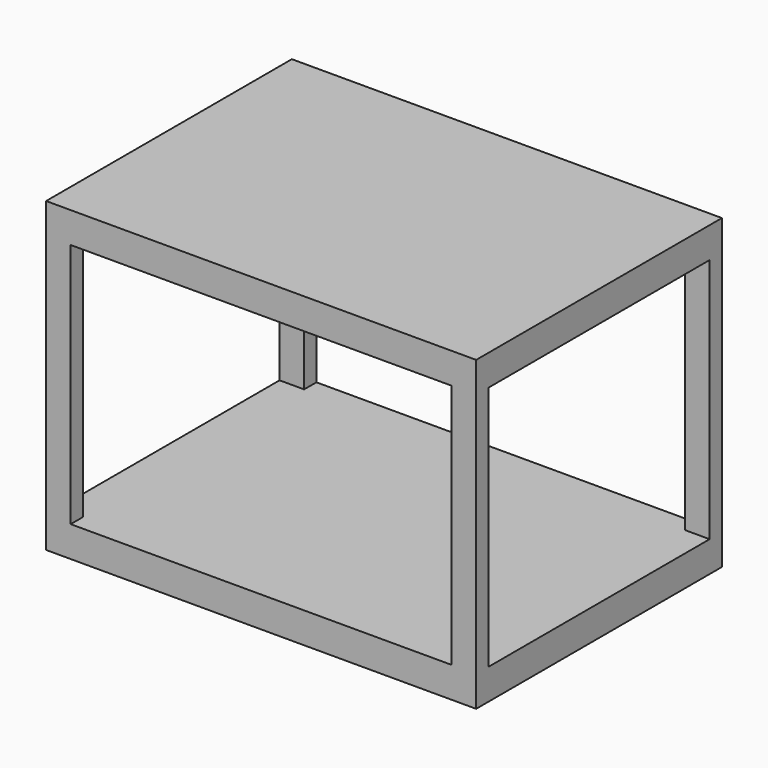
from build123d import *

# Parameters (mm, degrees)
F0_W     = 700
F0_H     = 500
F1_DEPTH = 500
F2_W     = 620
F2_H     = 400
F3_DEPTH = 810
F4_W     = 450
F4_H     = 400
F5_DEPTH = 777


with BuildPart() as f1:
    # F0 (on Top) → F1 (new body)
    with BuildSketch(Plane.XY):
        Rectangle(F0_W, F0_H)
    extrude(amount=F1_DEPTH)

    # F2 (on face) → F3 (cut)
    with BuildSketch(Plane.XZ.offset(250)):
        with Locations((0, 250)):
            Rectangle(F2_W, F2_H)
    extrude(amount=-F3_DEPTH, mode=Mode.SUBTRACT)

    # F4 (on face) → F5 (cut)
    with BuildSketch(Plane(origin=(-350, 0, 0), x_dir=(0, -1, 0), z_dir=(-1, 0, 0))):
        with Locations((0, 250)):
            Rectangle(F4_W, F4_H)
    extrude(amount=-F5_DEPTH, mode=Mode.SUBTRACT)


solid = f1.part
